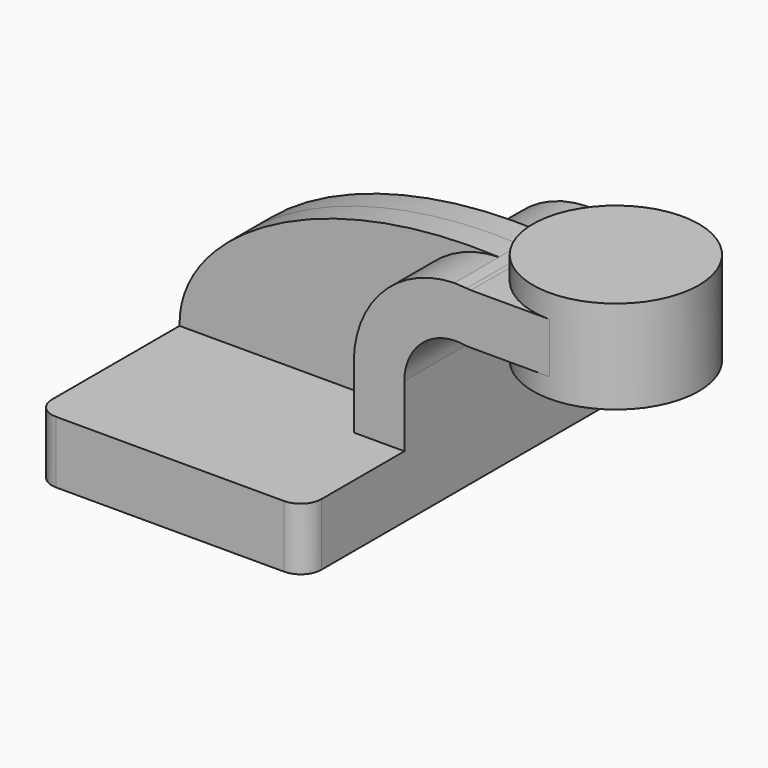
from build123d import *

# Parameters (mm, degrees)
F1_DEPTH = 63.5
F2_DEPTH = 25.4
F3_DEPTH = 8.2804
F5_R     = 6.35


with BuildPart() as f1:
    # F0 (on Front) → F1 (new body, symmetric)
    with BuildSketch(Plane.XZ):
        Polygon((-41.275, -9.525), (41.275, -9.525), (41.275, 9.525), (25.780999, 9.525), (-41.275, 9.525), align=None)
    extrude(amount=F1_DEPTH, both=True)

    # F0 (on Front) → F2 (join, symmetric)
    with BuildSketch(Plane.XZ):
        with BuildLine():
            Line((25.780999, 9.525), (41.275, 9.525))
            Line((41.275, 9.525), (41.275, 28.504782))
            ThreePointArc((41.275, 28.504782), (47.109768, 40.801504), (60.325, 44.059042))
            Line((60.325, 44.059042), (60.325, 59.648656))
            add(Edge.make_bspline(
                [(56.560999, 59.868252), (57.809032, 59.80963), (59.063808, 59.736539), (60.325, 59.648656)],
                knots=[111.091867, 111.091867, 111.091867, 111.091867, 113.567541, 113.567541, 113.567541, 113.567541], degree=3))
            ThreePointArc((56.560999, 59.868252), (34.761492, 50.476785), (25.780999, 28.504782))
            Line((25.780999, 28.504782), (25.780999, 9.525))
        make_face()
        with BuildLine():
            Line((60.325, 59.648656), (60.325, 44.059042))
            Line((60.325, 44.059042), (85.725, 44.059042))
            Line((85.725, 44.059042), (85.725, 59.553043))
            Line((85.725, 59.553043), (61.62434, 59.553043))
            add(Edge.make_bspline(
                [(60.325, 59.648656), (60.757364, 59.618527), (61.190481, 59.586661), (61.62434, 59.553043)],
                knots=[113.567541, 113.567541, 113.567541, 113.567541, 114.416254, 114.416254, 114.416254, 114.416254], degree=3))
        make_face()
    extrude(amount=F2_DEPTH, both=True)

    # F0 (on Front) → F3 (join, symmetric)
    with BuildSketch(Plane.XZ):
        with BuildLine():
            add(Edge.make_bspline(
                [(-41.275, 9.525), (-41.868726, 35.994224), (0.557538, 62.498833), (56.560999, 59.868252)],
                knots=[0, 0, 0, 0, 111.091867, 111.091867, 111.091867, 111.091867], degree=3))
            Line((-41.275, 9.525), (25.780999, 9.525))
            Line((25.780999, 9.525), (25.780999, 28.504782))
            ThreePointArc((25.780999, 28.504782), (34.761492, 50.476785), (56.560999, 59.868252))
        make_face()
    extrude(amount=F3_DEPTH, both=True)

    # F0 (on Front) → F4 (revolve)
    with BuildSketch(Plane.XZ):
        Polygon((85.725, 59.553043), (85.725, 44.059042), (85.725, 38.1), (111.125, 38.1), (111.125, 66.675), (85.725, 66.675), align=None)
    revolve(axis=Axis((85.725, 0, 52.3875), (0, 0, -1)))

    # F5
    f5_edges = [f1.edges().sort_by_distance(p)[0] for p in [
        (41.275, -63.5, 0),
        (-41.275, -63.5, 0),
        (-41.275, 63.5, 0),
        (41.275, 63.5, 0),
    ]]
    fillet(f5_edges, radius=F5_R)


solid = f1.part
